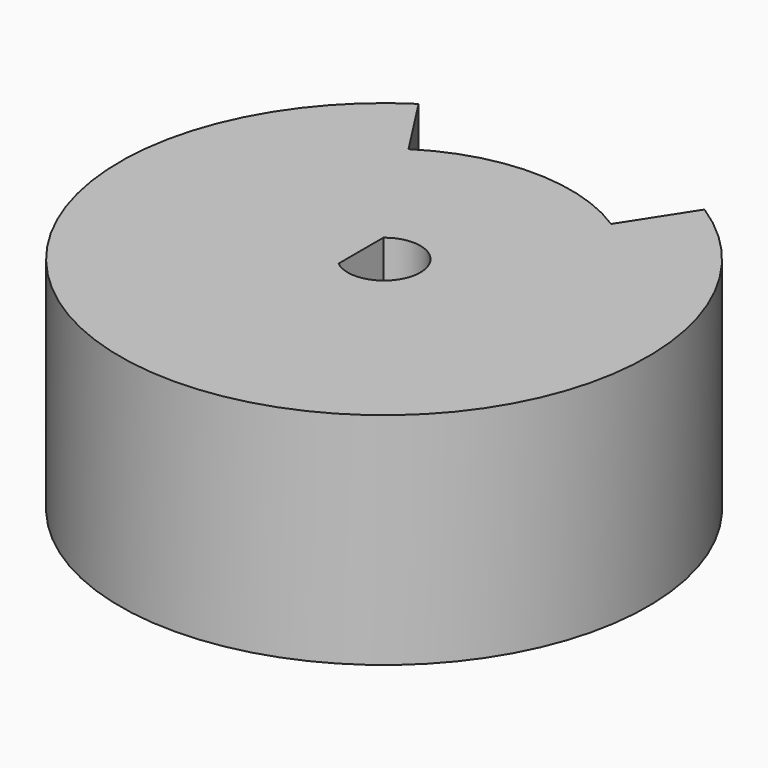
from build123d import *

# Parameters (mm, degrees)
F1_DEPTH = 10
F3_DEPTH = 7.5
F5_DEPTH = 25
F8_DEPTH = 2.2


with BuildPart() as f1:
    # F0 (on Top) → F1 (new body)
    with BuildSketch(Plane.XY):
        with BuildLine():
            Line((-4.6041666667, 7.1450436881), (-6.5, 10.0871205009))
            ThreePointArc((-6.5, 10.0871205009), (0, -12), (6.5, 10.0871205009))
            Line((6.5, 10.0871205009), (4.6041666667, 7.1450436881))
            ThreePointArc((4.6041666667, 7.1450436881), (0, 8.5), (-4.6041666667, 7.1450436881))
        make_face()
        with BuildLine():
            ThreePointArc((-1.05, 1.2727922061), (1.65, 0), (-1.05, -1.2727922061))
            Line((-1.05, -1.2727922061), (-1.05, 1.2727922061))
        make_face(mode=Mode.SUBTRACT)
    extrude(amount=F1_DEPTH)

    # F2 (on Top) → F3 (cut)
    with BuildSketch(Plane.XY):
        Polygon((-4, 0), (-4, 3.1), (-6.8, 3.1), (-6.8, -3.1), (-4, -3.1), align=None)
    extrude(amount=F3_DEPTH, mode=Mode.SUBTRACT)

    # F4 (on Right) → F5 (cut)
    with BuildSketch(Plane.YZ):
        with BuildLine():
            ThreePointArc((0, 1.4), (1.1313708499, 1.8686291501), (1.6, 3))
            ThreePointArc((1.6, 3), (-1.1313708499, 4.1313708499), (0, 1.4))
        make_face()
    extrude(amount=-F5_DEPTH, mode=Mode.SUBTRACT)

    # F7 (on offset) → F8 (cut)
    with BuildSketch(Plane(origin=(-12, 0, 0), x_dir=(0, -1, 0), z_dir=(-1, 0, 0))):
        with BuildLine():
            Line((3, -2.9697169084), (3, 3))
            ThreePointArc((3, 3), (0, 6), (-3, 3))
            Line((-3, 3), (-3, -2.9697169084))
            Line((-3, -2.9697169084), (3, -2.9697169084))
        make_face()
    extrude(amount=-F8_DEPTH, mode=Mode.SUBTRACT)


solid = f1.part
